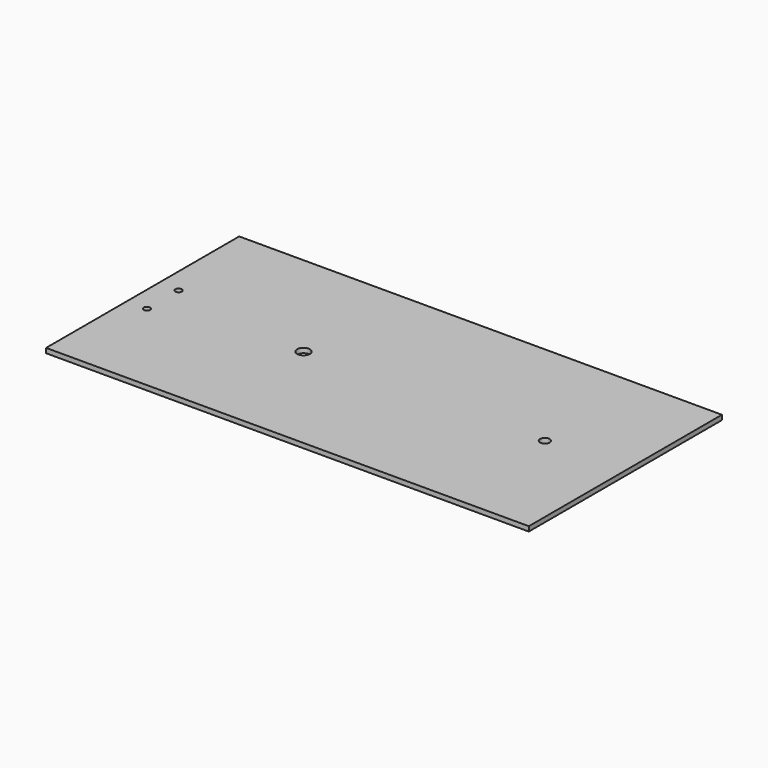
from build123d import *

# Parameters (mm, degrees)
F0_W     = 304.8
F0_H     = 152.4
F0_R     = 2.05
F0_R_2   = 4.05
F0_R_3   = 3.05
F1_DEPTH = 3


with BuildPart() as f1:
    # F0 (on Top) → F1 (new body)
    with BuildSketch(Plane.XY):
        Rectangle(F0_W, F0_H)
        with Locations((-139.7, -12.4968)):
            Circle(F0_R, mode=Mode.SUBTRACT)
        with Locations((-139.7, 12.4968)):
            Circle(F0_R, mode=Mode.SUBTRACT)
        with Locations((-50.8, 0)):
            Circle(F0_R_2, mode=Mode.SUBTRACT)
        with Locations((101.6, 0)):
            Circle(F0_R_3, mode=Mode.SUBTRACT)
    extrude(amount=F1_DEPTH)


solid = f1.part
